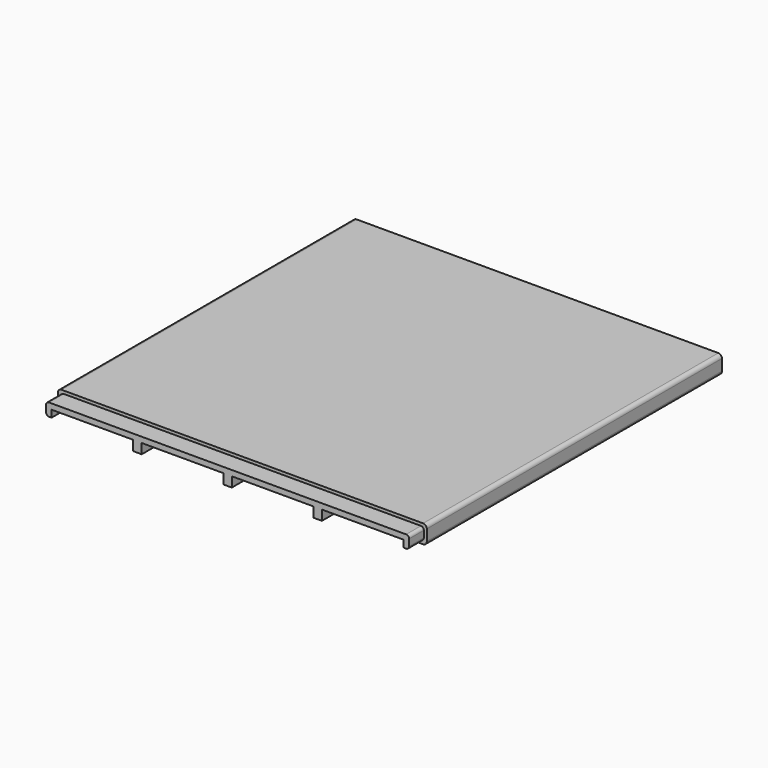
from build123d import *

# Parameters (mm, degrees)
F1_DEPTH = 100
F2_DEPTH = 105


with BuildPart() as f1:
    # F0 (on Front) → F1 (new body)
    with BuildSketch(Plane.XZ):
        with BuildLine():
            ThreePointArc((50, 1.5), (49.707107, 2.207107), (49, 2.5))
            Line((49, 2.5), (-49, 2.5))
            ThreePointArc((-49, 2.5), (-49.707107, 2.207107), (-50, 1.5))
            Line((-50, 1.5), (-50, -1.5))
            ThreePointArc((-50, -1.5), (-49.707107, -2.207107), (-49, -2.5))
            Line((-49, -2.5), (-47.7, -2.5))
            Line((-47.7, -2.5), (-47.7, -1.7))
            Line((-47.7, -1.7), (-48.4, -1.7))
            ThreePointArc((-48.4, -1.7), (-48.965685, -1.465685), (-49.2, -0.9))
            Line((-49.2, -0.9), (-49.2, 0.9))
            ThreePointArc((-49.2, 0.9), (-48.965685, 1.465685), (-48.4, 1.7))
            Line((-48.4, 1.7), (48.4, 1.7))
            ThreePointArc((48.4, 1.7), (48.965685, 1.465685), (49.2, 0.9))
            Line((49.2, 0.9), (49.2, -0.9))
            ThreePointArc((49.2, -0.9), (48.965685, -1.465685), (48.4, -1.7))
            Line((48.4, -1.7), (47.7, -1.7))
            Line((47.7, -1.7), (47.7, -2.5))
            Line((47.7, -2.5), (49, -2.5))
            ThreePointArc((49, -2.5), (49.707107, -2.207107), (50, -1.5))
            Line((50, -1.5), (50, 1.5))
        make_face()
    extrude(amount=F1_DEPTH)


with BuildPart() as f2:
    # F0 (on Front) → F2 (new body)
    with BuildSketch(Plane.XZ):
        with BuildLine():
            Line((47.7, 0.2), (47.7, -1.7))
            Line((47.7, -1.7), (48.4, -1.7))
            ThreePointArc((48.4, -1.7), (48.965685, -1.465685), (49.2, -0.9))
            Line((49.2, -0.9), (49.2, 0.9))
            ThreePointArc((49.2, 0.9), (48.965685, 1.465685), (48.4, 1.7))
            Line((48.4, 1.7), (-48.4, 1.7))
            ThreePointArc((-48.4, 1.7), (-48.965685, 1.465685), (-49.2, 0.9))
            Line((-49.2, 0.9), (-49.2, -0.9))
            ThreePointArc((-49.2, -0.9), (-48.965685, -1.465685), (-48.4, -1.7))
            Line((-48.4, -1.7), (-47.7, -1.7))
            Line((-47.7, -1.7), (-47.7, 0.2))
            Line((-47.7, 0.2), (-25.575, 0.2))
            Line((-25.575, 0.2), (-25.575, -2.5))
            Line((-25.575, -2.5), (-23.275, -2.5))
            Line((-23.275, -2.5), (-23.275, 0.2))
            Line((-23.275, 0.2), (-1.15, 0.2))
            Line((-1.15, 0.2), (-1.15, -2.5))
            Line((-1.15, -2.5), (1.15, -2.5))
            Line((1.15, -2.5), (1.15, 0.2))
            Line((1.15, 0.2), (23.275, 0.2))
            Line((23.275, 0.2), (23.275, -2.5))
            Line((23.275, -2.5), (25.575, -2.5))
            Line((25.575, -2.5), (25.575, 0.2))
            Line((25.575, 0.2), (47.7, 0.2))
        make_face()
    extrude(amount=F2_DEPTH)


solid = Compound([f1.part, f2.part])
